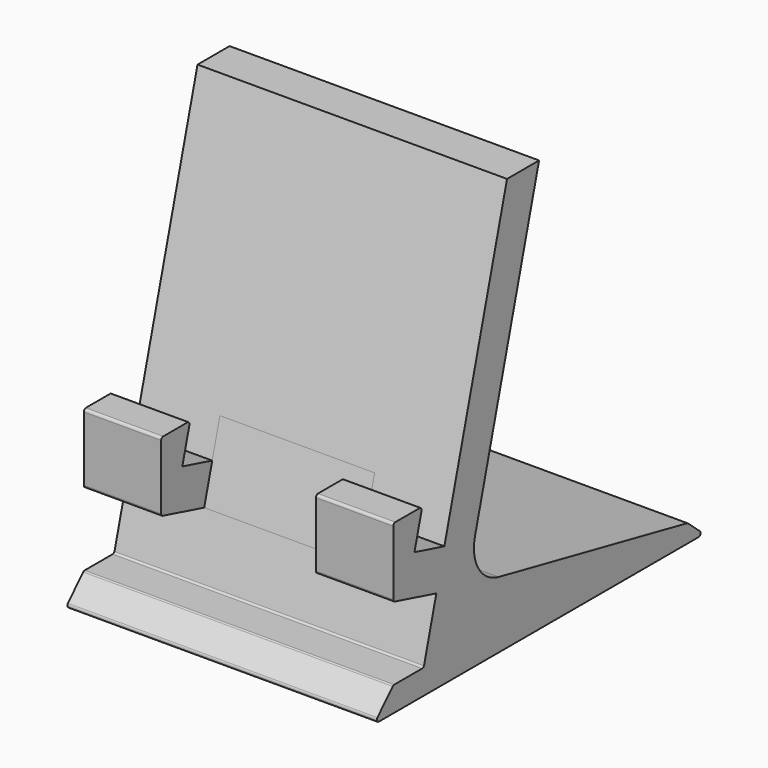
from build123d import *

# Parameters (mm, degrees)
F0_W     = 76.2
F0_H     = 101.6
F1_DEPTH = 101.6
F3_DEPTH = 76.201
F4_W     = 38.1
F4_H     = 9.0885387092
F5_DEPTH = 25.4
F7_DEPTH = 19.05


with BuildPart() as f1:
    # F0 (on Top) → F1 (new body)
    with BuildSketch(Plane.XY):
        Rectangle(F0_W, F0_H)
    extrude(amount=F1_DEPTH)

    # F2 (on face) → F3 (cut, through all)
    with BuildSketch(Plane.YZ.offset(38.1)):
        with BuildLine():
            Line((50.8, 101.6), (0, 101.6))
            Line((0, 101.6), (-19.7247579018, 28.1743642605))
            ThreePointArc((-19.7247579018, 28.1743642605), (-18.6322824559, 20.7020087833), (-12.4441793676, 16.3733855441))
            Line((-12.4441793676, 16.3733855441), (45.5164201772, 4.4562514699))
            ThreePointArc((45.5164201772, 4.4562514699), (45.6671065402, 4.4046156558), (45.799921858, 4.316679721))
            Line((45.799921858, 4.316679721), (49.5238091926, 1.1017641769))
            ThreePointArc((49.5238091926, 1.1017641769), (49.7017678057, 0.4084810434), (49.114014449, 0))
            Line((49.114014449, 0), (50.8, 0))
            Line((50.8, 0), (50.8, 101.6))
        make_face()
        with BuildLine():
            Line((-29.1485272072, 29.8082903279), (-9.8627004197, 101.6))
            Line((-9.8627004197, 101.6), (-50.8, 101.6))
            Line((-50.8, 101.6), (-50.8, 0))
            Line((-50.8, 0), (-49.3153884285, 0))
            ThreePointArc((-49.3153884285, 0), (-49.8930613229, 0.38308634), (-49.7649416709, 1.0642959051))
            Line((-49.7649416709, 1.0642959051), (-45.0471924847, 5.9153086442))
            ThreePointArc((-45.0471924847, 5.9153086442), (-44.8416453701, 6.0557781013), (-44.5976392423, 6.1051976748))
            Line((-44.5976392423, 6.1051976748), (-35.9854393765, 6.1051976748))
            ThreePointArc((-35.9854393765, 6.1051976748), (-35.6522704088, 6.2010242938), (-35.4209251987, 6.4592174303))
            Line((-35.4209251987, 6.4592174303), (-31.6196714319, 20.6094278319))
            Line((-31.6196714319, 20.6094278319), (-32.3972816474, 20.8183218113))
            Line((-32.3972816474, 20.8183218113), (-44.3981189181, 24.042176905))
            ThreePointArc((-44.3981189181, 24.042176905), (-44.7330556249, 24.2662072787), (-44.8625199497, 24.6477976277))
            Line((-44.8625199497, 24.6477976277), (-44.8625199497, 40.5587139142))
            ThreePointArc((-44.8625199497, 40.5587139142), (-44.6788488183, 41.0021352507), (-44.2354274818, 41.1858063821))
            Line((-44.2354274818, 41.1858063821), (-36.772603948, 41.1858063821))
            ThreePointArc((-36.772603948, 41.1858063821), (-36.2749758049, 40.9403042633), (-36.1669832252, 40.396022478))
            Line((-36.1669832252, 40.396022478), (-38.3473897032, 32.2794345527))
            Line((-38.3473897032, 32.2794345527), (-29.1485272072, 29.8082903279))
        make_face()
    extrude(amount=-F3_DEPTH, mode=Mode.SUBTRACT)

    # F4 (on face) → F5 (cut)
    with BuildSketch(Plane(origin=(0, -34.6552022965, 9.3096296471), x_dir=(1, 0, 0), z_dir=(0, -0.9657598421, 0.2594377139))):
        with Locations((0, 25.7696918533)):
            Rectangle(F4_W, F4_H)
    extrude(amount=F5_DEPTH, mode=Mode.SUBTRACT)

    # F6 (on face) → F7 (cut)
    with BuildSketch(Plane(origin=(0, 5.5066750893, 20.4986606809), x_dir=(1, 0, 0), z_dir=(0, 0.2594377139, 0.9657598421))):
        Polygon((-19.05, -45.4088717305), (-19.05, -52.1549901364), (19.05, -52.1549901364), (19.05, -45.4088717305), (19.05, -35.8838717305), (-19.05, -35.8838717305), align=None)
    extrude(amount=-F7_DEPTH, mode=Mode.SUBTRACT)


solid = f1.part
